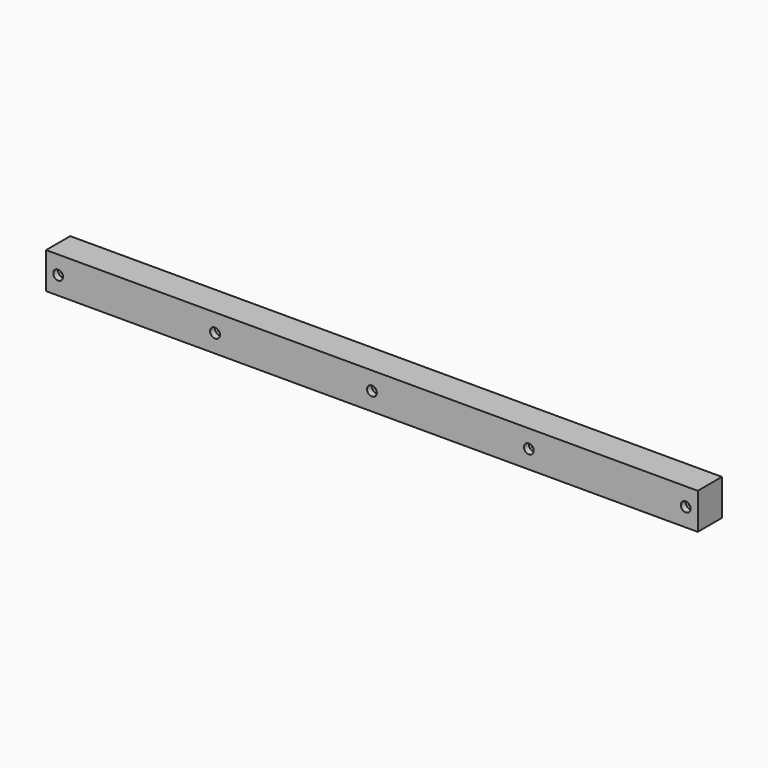
from build123d import *

# Parameters (mm, degrees)
F0_W           = 1371.6
F0_H           = 76.2
F1_DEPTH       = 63.5
F2_D           = 8.2042
F2_CBORE_D     = 20.6375
F2_CBORE_DEPTH = 12.7


with BuildPart() as f1:
    # F0 (on Front) → F1 (new body)
    with BuildSketch(Plane.XZ):
        Rectangle(F0_W, F0_H)
    extrude(amount=-F1_DEPTH)

    # F2 (through all)
    with Locations(Plane.XZ):
        with Locations((-660.4, 0), (-330.2, 0), (0, 0), (330.2, 0), (660.4, 0)):
            CounterBoreHole(F2_D / 2, F2_CBORE_D / 2, F2_CBORE_DEPTH)


solid = f1.part
